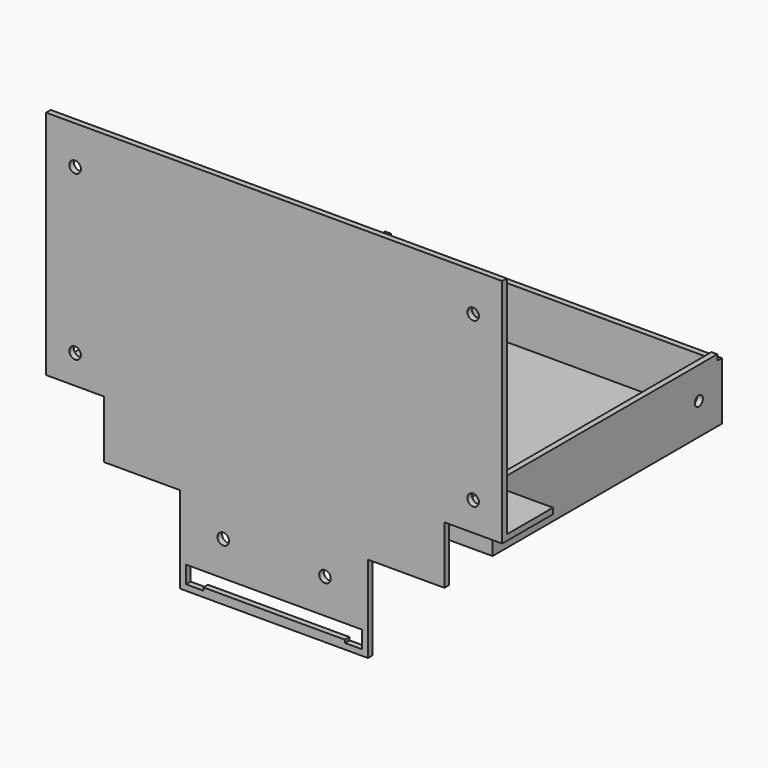
from build123d import *

# Parameters (mm, degrees)
F2_DEPTH  = 2
F4_DEPTH  = 18
F6_DEPTH  = 2
F7_R      = 1.75
F8_DEPTH  = 115.001
F9_W      = 2
F9_H      = 95.25
F10_DEPTH = 2
F12_R     = 2
F13_DEPTH = 2
F14_DEPTH = 20


with BuildPart() as f2:
    # F1 (on Top) → F2 (new body)
    with BuildSketch(Plane.XY):
        Polygon((-37.5, -60), (37.5, -60), (37.5, -39.25), (57.5, -39.25), (57.5, 60), (0, 60), (-57.5, 60), (-57.5, -39.25), (-37.5, -39.25), align=None)
    extrude(amount=F2_DEPTH)

    # F3 (on face) → F4 (join)
    with BuildSketch(Plane.XY.offset(2)):
        Polygon((-55.5, -37.25), (-55.5, 58), (55.5, 58), (55.5, -37.25), (37.5, -37.25), (37.5, -39.25), (57.5, -39.25), (57.5, 60), (0, 60), (-57.5, 60), (-57.5, -39.25), (-37.5, -39.25), (-37.5, -37.25), align=None)
    extrude(amount=F4_DEPTH)

    # F5 (on face) → F6 (cut, through all)
    with BuildSketch(Plane.XZ.offset(39.25)):
        Polygon((-37.5, 2), (-37.5, 20), (-55.5, 20), align=None)
        Polygon((55.5, 20), (37.5, 20), (37.5, 2), align=None)
    extrude(amount=-F6_DEPTH, mode=Mode.SUBTRACT)

    # F7 (on face) → F8 (cut, through all)
    with BuildSketch(Plane(origin=(-57.5, 0, 0), x_dir=(0, -1, 0), z_dir=(-1, 0, 0))):
        with Locations((-50, 11)):
            Circle(F7_R)
        with Locations((29.25, 11)):
            Circle(F7_R)
    extrude(amount=-F8_DEPTH, mode=Mode.SUBTRACT)

    # F9 (on face) → F10 (join)
    with BuildSketch(Plane.XY.offset(20)):
        with Locations((56.5, 10.375)):
            Rectangle(F9_W, F9_H)
        with Locations((-56.5, 10.375)):
            Rectangle(F9_W, F9_H)
    extrude(amount=F10_DEPTH)


with BuildPart() as f13:
    # F12 (on offset) → F13 (new body)
    with BuildSketch(Plane.XZ.offset(59.9)):
        Polygon((-32.5, -0.1356871004), (-32.5, -30), (32.5, -30), (32.5, 0), (34.8185987762, 0), (57.9599612257, 22), (58.1487305462, 22), (78.9476944018, 22), (78.9476944018, 100), (0, 100), (-78.9476944018, 100), (-78.9476944018, 22), (-58.1487305462, 22), (-35.0073680967, 0), (-32.5, 0), align=None)
        with Locations((-17.6044665277, -10)):
            Circle(F12_R, mode=Mode.SUBTRACT)
        with Locations((-68.8976944018, 30)):
            Circle(F12_R, mode=Mode.SUBTRACT)
        Polygon((-30.5, -28), (-30.5, -27), (-30.5, -22), (30.5, -22), (30.5, -27), (30.5, -28), (24.5, -28), (24.5, -27), (-24.5, -27), (-24.5, -28), align=None, mode=Mode.SUBTRACT)
        with Locations((17.6044665277, -10)):
            Circle(F12_R, mode=Mode.SUBTRACT)
        with Locations((68.8976944018, 30)):
            Circle(F12_R, mode=Mode.SUBTRACT)
        with Locations((-68.8976944018, 86.6746587008)):
            Circle(F12_R, mode=Mode.SUBTRACT)
        with Locations((68.8976944018, 86.6746587008)):
            Circle(F12_R, mode=Mode.SUBTRACT)
        Polygon((57.9599612257, 22), (34.8185987762, 0), (37.910092175, 0), (58.9476944018, 20), (78.9476944018, 20), (78.9476944018, 22), (58.1487305462, 22), align=None)
        Polygon((-37.910092175, 0), (-35.0073680967, 0), (-58.1487305462, 22), (-78.9476944018, 22), (-78.9476944018, 20), (-58.9476944018, 20), align=None)
        Polygon((58.9476944018, 20), (37.910092175, 0), (58.9476944018, 0), align=None)
        Polygon((-58.9476944018, 0), (-37.910092175, 0), (-58.9476944018, 20), align=None)
    extrude(amount=F13_DEPTH)

    # F12 (on offset) → F14 (join)
    with BuildSketch(Plane.XZ.offset(59.9)):
        Polygon((57.9599612257, 22), (34.8185987762, 0), (37.910092175, 0), (58.9476944018, 20), (78.9476944018, 20), (78.9476944018, 22), (58.1487305462, 22), align=None)
        Polygon((-37.910092175, 0), (-35.0073680967, 0), (-58.1487305462, 22), (-78.9476944018, 22), (-78.9476944018, 20), (-58.9476944018, 20), align=None)
    extrude(amount=-F14_DEPTH)


solid = Compound([f2.part, f13.part])
